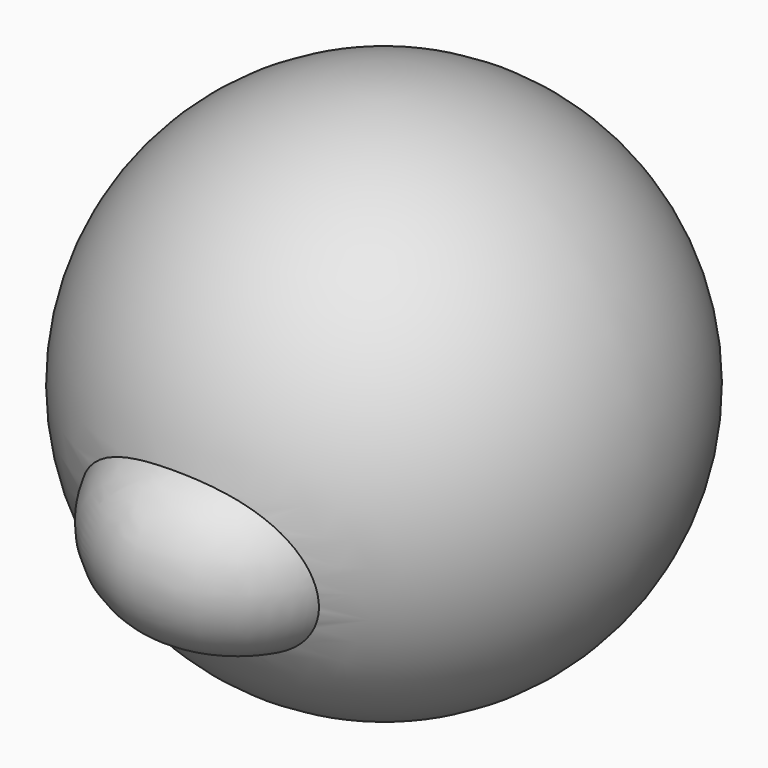
from build123d import *


with BuildPart() as f1:
    # F0 (on Front) → F1 (revolve)
    with BuildSketch(Plane.XZ):
        with BuildLine():
            Line((0, 63.5), (0, -63.5))
            ThreePointArc((0, -63.5), (63.5, 0), (0, 63.5))
        make_face()
    revolve(axis=Axis((0, 0, 48.222952), (0, 0, 1)))

    # F2 (on Right) → F3 (revolve)
    with BuildSketch(Plane.YZ):
        with BuildLine():
            Line((-44.134542, -29.541697), (-44.134542, 6.947474))
            ThreePointArc((-44.134542, 6.947474), (-74.653071, -11.297112), (-44.134542, -29.541697))
        make_face()
    revolve(axis=Axis((0, -44.134542, -11.297112), (0, 0, -1)))


solid = f1.part
